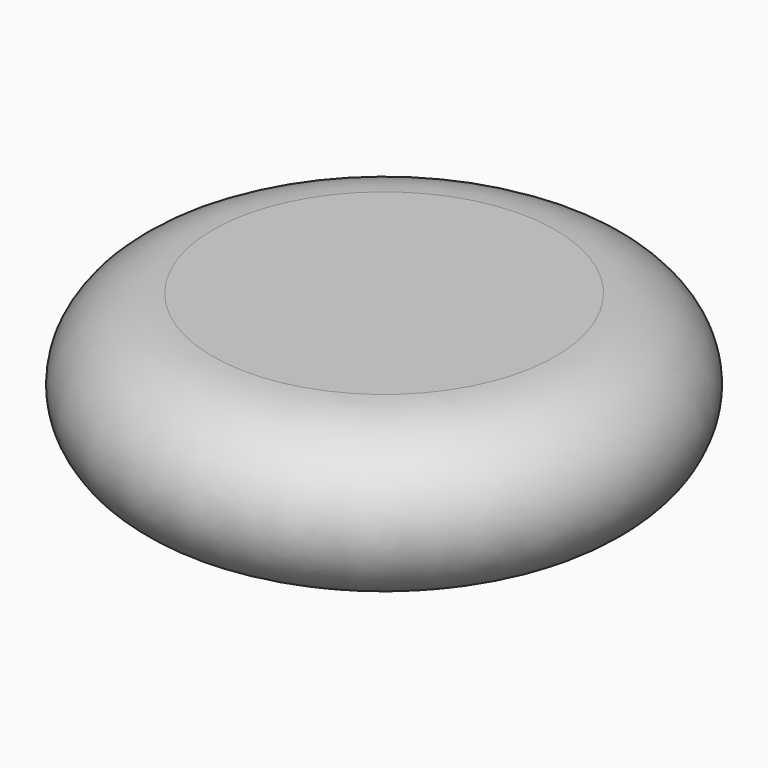
from build123d import *


with BuildPart() as f2:
    # F0 (on Front) → F2 (revolve)
    with BuildSketch(Plane.XZ):
        with BuildLine():
            Line((-2225, 0), (0, 0))
            Line((0, 0), (0, 2077))
            Line((0, 2077), (-2225, 2077))
            add(Edge.make_bspline(
                [(-2225, 2077), (-3427, 2077), (-3427, 1038.5), (-3427, 0), (-2225, 0)],
                knots=[4.7123889804, 4.7123889804, 4.7123889804, 6.2831853072, 6.2831853072, 7.853981634, 7.853981634, 7.853981634], degree=2, weights=[1, 0.7071067812, 1, 0.7071067812, 1]))
        make_face()
    revolve(axis=Axis((0, 0, 1038.5), (0, 0, 1)))


solid = f2.part
